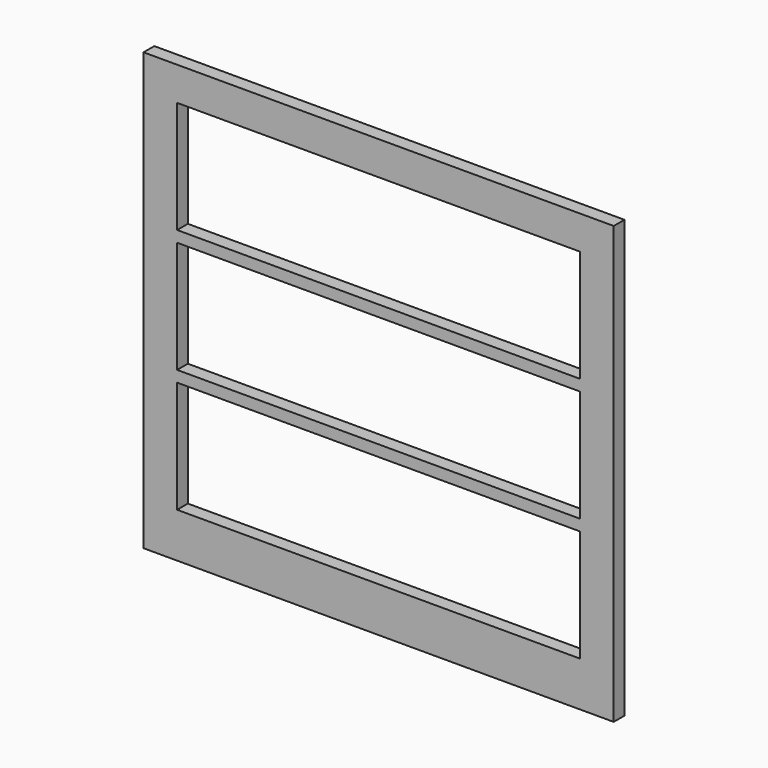
from build123d import *

# Parameters (mm, degrees)
F0_W     = 533.4
F0_H     = 495.3
F0_W_2   = 457.2
F0_H_2   = 127
F1_DEPTH = 15.24


with BuildPart() as f1:
    # F0 (on Front) → F1 (new body)
    with BuildSketch(Plane.XZ):
        Rectangle(F0_W, F0_H)
        with Locations((0, -133.35)):
            Rectangle(F0_W_2, F0_H_2, mode=Mode.SUBTRACT)
        with Locations((0, 6.35)):
            Rectangle(F0_W_2, F0_H_2, mode=Mode.SUBTRACT)
        with Locations((0, 146.05)):
            Rectangle(F0_W_2, F0_H_2, mode=Mode.SUBTRACT)
    extrude(amount=F1_DEPTH)


solid = f1.part
